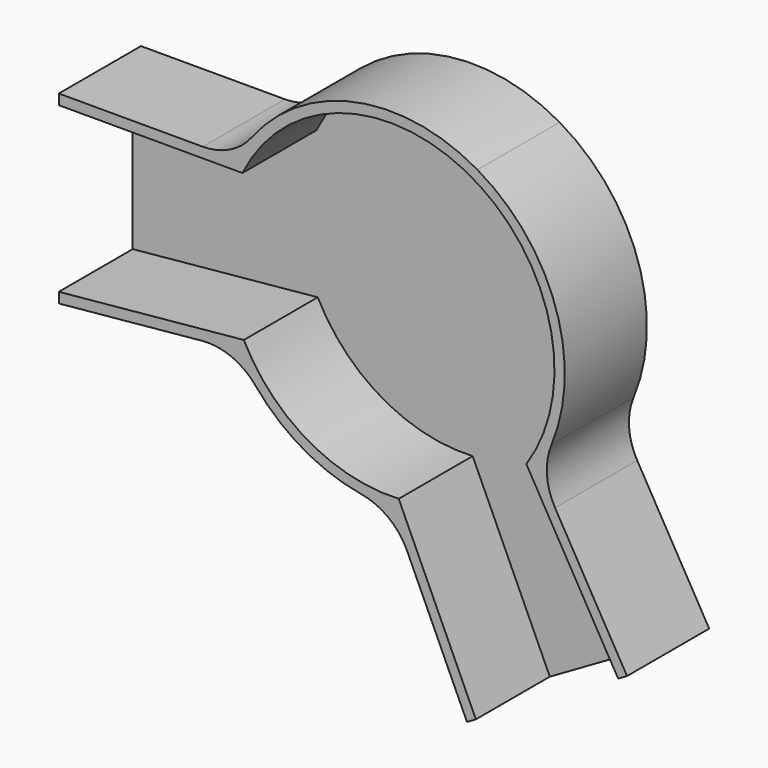
from build123d import *

# Parameters (mm, degrees)
F1_DEPTH = 63.5
F3_DEPTH = 57.15


with BuildPart() as f1:
    # F0 (on Front) → F1 (new body)
    with BuildSketch(Plane.XZ):
        with BuildLine():
            Line((393.824851, 57.15), (304.8, 57.15))
            Line((304.8, 57.15), (304.8, -57.15))
            Line((304.8, -57.15), (393.404788, -48.661999))
            ThreePointArc((393.404788, -48.661999), (411.620709, -51.38959), (426.428465, -62.34358))
            ThreePointArc((426.428465, -62.34358), (455.726477, -87.137442), (491.847598, -100.113334))
            ThreePointArc((491.847598, -100.113334), (508.73791, -107.460232), (520.208033, -121.871887))
            Line((520.208033, -121.871887), (557.159603, -202.849885))
            Line((557.159603, -202.849885), (656.146307, -145.699885))
            Line((656.146307, -145.699885), (611.633881, -68.602102))
            ThreePointArc((611.633881, -68.602102), (606.610921, -52.042385), (609.430848, -34.968945))
            ThreePointArc((609.430848, -34.968945), (611.924023, 41.045153), (563.676477, 99.837442))
            ThreePointArc((563.676477, 99.837442), (488.637088, 112.224898), (424.053536, 72.058696))
            ThreePointArc((424.053536, 72.058696), (410.677467, 61.079847), (393.824851, 57.15))
        make_face()
    extrude(amount=F1_DEPTH)


with BuildPart() as f3:
    # F2 (on face) → F3 (new body)
    with BuildSketch(Plane.XZ.offset(63.5)):
        with BuildLine():
            Line((293.525537, -51.85098), (419.194066, -39.812414))
            ThreePointArc((419.194066, -39.812414), (458.901477, -81.638181), (514.977359, -95.112925))
            Line((514.977359, -95.112925), (570.314071, -216.38128))
            Line((570.314071, -216.38128), (656.146307, -158.399885))
            Line((656.146307, -158.399885), (593.876602, -50.545592))
            ThreePointArc((593.876602, -50.545592), (560.501477, 94.338181), (418.340887, 50.8))
            Line((418.340887, 50.8), (288.119435, 50.8))
            Line((288.119435, 50.8), (293.525537, -51.85098))
        make_face()
    extrude(amount=-F3_DEPTH)


with BuildPart() as f1_1:
    add(f1.part)

    # F4: cut F3
    add(f3.part, mode=Mode.SUBTRACT)


solid = f1_1.part
